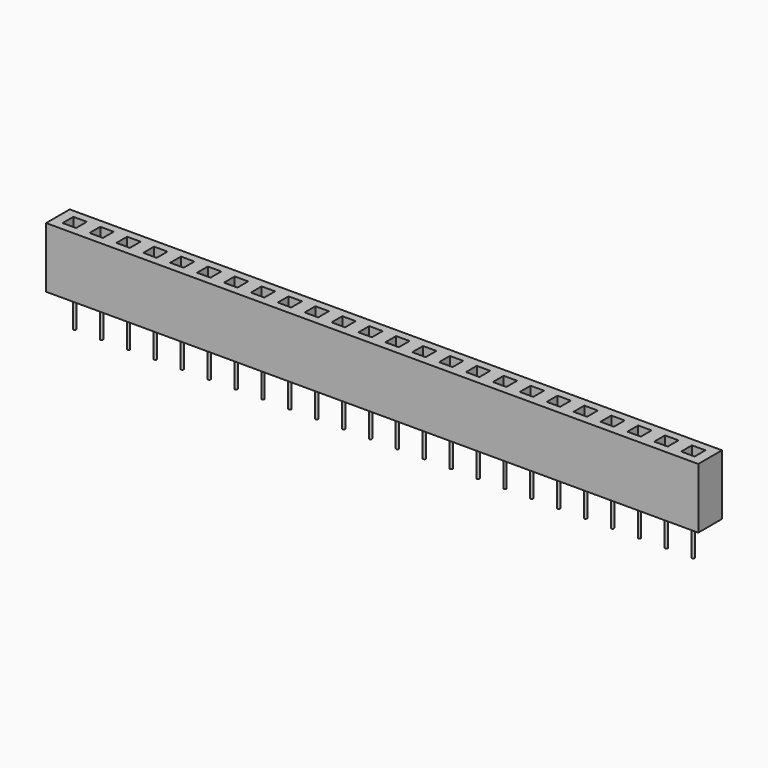
from build123d import *

# Parameters (mm, degrees)
F0_W     = 48.5
F0_H     = 2.2
F1_DEPTH = 4.5
F2_W     = 1
F2_H     = 1
F3_DEPTH = 4
F4_R     = 0.1
F5_DEPTH = 2.5


with BuildPart() as f1:
    # F0 (on Top) → F1 (new body)
    with BuildSketch(Plane.XY):
        Rectangle(F0_W, F0_H)
    extrude(amount=F1_DEPTH)

    # F2 (on face) → F3 (cut)
    with BuildSketch(Plane.XY.offset(4.5)):
        with Locations((23, 0)):
            Rectangle(F2_W, F2_H)
        with Locations((21, 0)):
            Rectangle(F2_W, F2_H)
        with Locations((19, 0)):
            Rectangle(F2_W, F2_H)
        with Locations((17, 0)):
            Rectangle(F2_W, F2_H)
        with Locations((15, 0)):
            Rectangle(F2_W, F2_H)
        with Locations((13, 0)):
            Rectangle(F2_W, F2_H)
        with Locations((11, 0)):
            Rectangle(F2_W, F2_H)
        with Locations((9, 0)):
            Rectangle(F2_W, F2_H)
        with Locations((7, 0)):
            Rectangle(F2_W, F2_H)
        with Locations((5, 0)):
            Rectangle(F2_W, F2_H)
        with Locations((3, 0)):
            Rectangle(F2_W, F2_H)
        with Locations((1, 0)):
            Rectangle(F2_W, F2_H)
        with Locations((-1, 0)):
            Rectangle(F2_W, F2_H)
        with Locations((-3, 0)):
            Rectangle(F2_W, F2_H)
        with Locations((-5, 0)):
            Rectangle(F2_W, F2_H)
        with Locations((-7, 0)):
            Rectangle(F2_W, F2_H)
        with Locations((-9, 0)):
            Rectangle(F2_W, F2_H)
        with Locations((-11, 0)):
            Rectangle(F2_W, F2_H)
        with Locations((-13, 0)):
            Rectangle(F2_W, F2_H)
        with Locations((-15, 0)):
            Rectangle(F2_W, F2_H)
        with Locations((-17, 0)):
            Rectangle(F2_W, F2_H)
        with Locations((-19, 0)):
            Rectangle(F2_W, F2_H)
        with Locations((-21, 0)):
            Rectangle(F2_W, F2_H)
        with Locations((-23, 0)):
            Rectangle(F2_W, F2_H)
    extrude(amount=-F3_DEPTH, mode=Mode.SUBTRACT)

    # F4 (on face) → F5 (join)
    with BuildSketch(Plane(origin=(0, 0, 0), x_dir=(1, 0, 0), z_dir=(0, 0, -1))):
        with Locations((23, 0)):
            Circle(F4_R)
        with Locations((21, 0)):
            Circle(F4_R)
        with Locations((19, 0)):
            Circle(F4_R)
        with Locations((17, 0)):
            Circle(F4_R)
        with Locations((15, 0)):
            Circle(F4_R)
        with Locations((13, 0)):
            Circle(F4_R)
        with Locations((11, 0)):
            Circle(F4_R)
        with Locations((9, 0)):
            Circle(F4_R)
        with Locations((7, 0)):
            Circle(F4_R)
        with Locations((5, 0)):
            Circle(F4_R)
        with Locations((3, 0)):
            Circle(F4_R)
        with Locations((1, 0)):
            Circle(F4_R)
        with Locations((-1, 0)):
            Circle(F4_R)
        with Locations((-3, 0)):
            Circle(F4_R)
        with Locations((-5, 0)):
            Circle(F4_R)
        with Locations((-7, 0)):
            Circle(F4_R)
        with Locations((-9, 0)):
            Circle(F4_R)
        with Locations((-11, 0)):
            Circle(F4_R)
        with Locations((-13, 0)):
            Circle(F4_R)
        with Locations((-15, 0)):
            Circle(F4_R)
        with Locations((-17, 0)):
            Circle(F4_R)
        with Locations((-19, 0)):
            Circle(F4_R)
        with Locations((-21, 0)):
            Circle(F4_R)
        with Locations((-23, 0)):
            Circle(F4_R)
    extrude(amount=F5_DEPTH)


solid = f1.part
